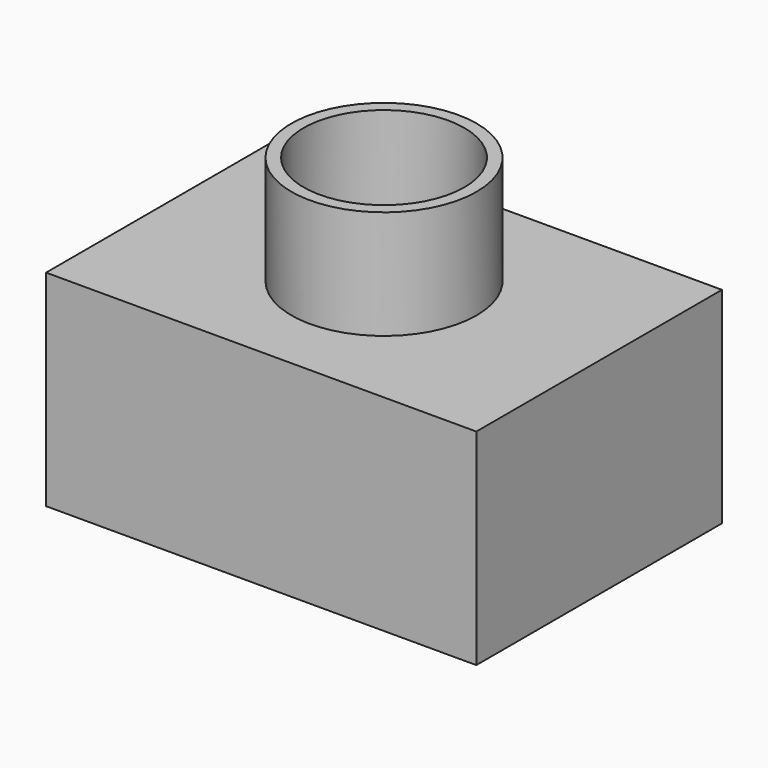
from build123d import *

# Parameters (mm, degrees)
F0_W      = 100.443094
F0_H      = 71.661144
F1_DEPTH  = 48.006
F2_R      = 21.614907
F2_R_2    = 18.770119
F3_DEPTH  = 25.4
F3_FACE_R = 18.770119
F4_DEPTH  = 86.36


with BuildPart() as f1:
    # F0 (on Top) → F1 (new body)
    with BuildSketch(Plane.XY):
        Rectangle(F0_W, F0_H)
    extrude(amount=F1_DEPTH)

    # F2 (on face) → F3 (join)
    with BuildSketch(Plane.XY.offset(48.006)):
        Circle(F2_R)
        Circle(F2_R_2, mode=Mode.SUBTRACT)
    extrude(amount=F3_DEPTH)

    # F3_face (on face) → F4 (cut)
    with BuildSketch(Plane.XY.offset(48.006)):
        Circle(F3_FACE_R)
    extrude(amount=-F4_DEPTH, mode=Mode.SUBTRACT)


solid = f1.part
